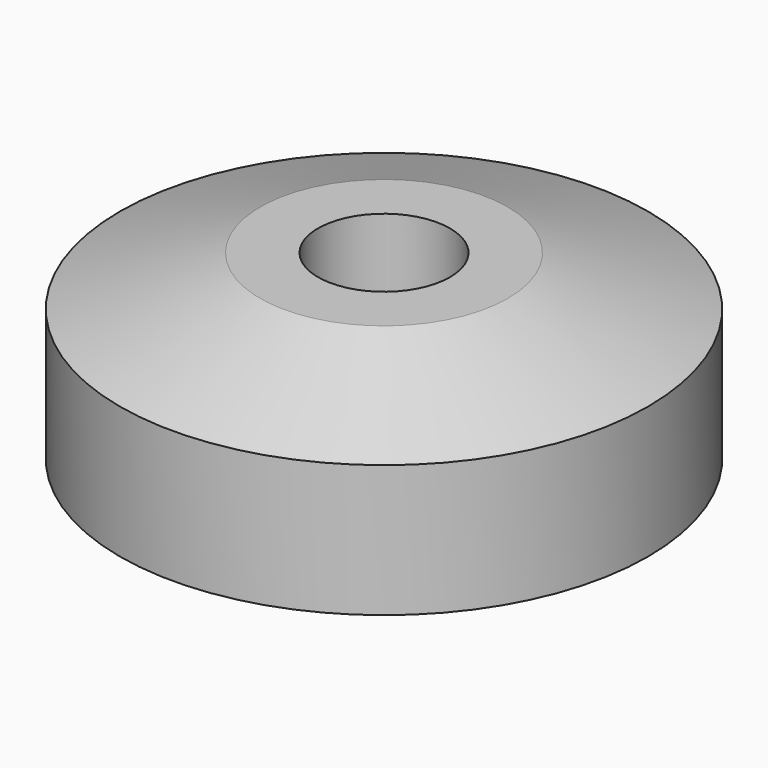
from build123d import *

# Parameters (mm, degrees)
SKETCH001_R  = 4
POCKET_DEPTH = 11.001


with BuildPart() as part:
    # Sketch → Revolution (revolve)
    with BuildSketch(Plane.XZ):
        Polygon((0, 0), (0, 11), (7.5, 11), (16, 8), (16, 0), align=None)
    revolve(axis=Axis((0, 0, 0), (0, 0, 1)))

    # Sketch001 → Pocket (cut, through all)
    with BuildSketch(Plane.XY):
        Circle(SKETCH001_R)
    extrude(amount=POCKET_DEPTH, mode=Mode.SUBTRACT)


solid = part.part
